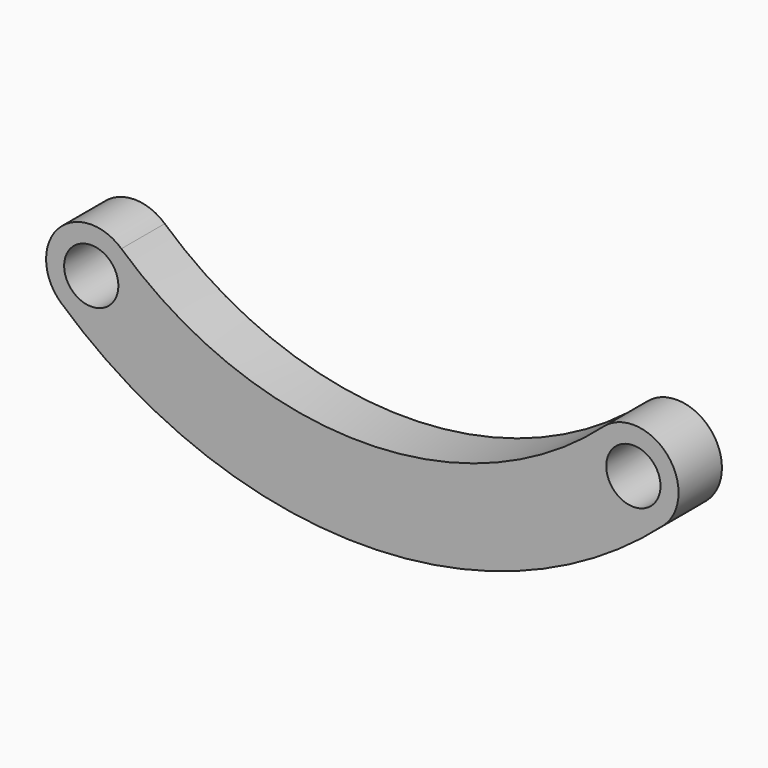
from build123d import *

# Parameters (mm, degrees)
F0_R     = 9.525
F1_DEPTH = 19.05


with BuildPart() as f1:
    # F0 (on Front) → F1 (new body)
    with BuildSketch(Plane.XZ):
        with BuildLine():
            ThreePointArc((179.916667, 11.832526), (95.25, -20.507263), (10.583333, 11.832526))
            ThreePointArc((10.583333, 11.832526), (-11.832526, 10.583333), (-10.583333, -11.832526))
            ThreePointArc((-10.583333, -11.832526), (95.25, -52.257263), (201.083333, -11.832526))
            ThreePointArc((201.083333, -11.832526), (202.332526, 10.583333), (179.916667, 11.832526))
        make_face()
        Circle(F0_R, mode=Mode.SUBTRACT)
        with Locations((190.5, 0)):
            Circle(F0_R, mode=Mode.SUBTRACT)
        with BuildLine():
            ThreePointArc((179.916667, 11.832526), (95.25, -20.507263), (10.583333, 11.832526))
            ThreePointArc((10.583333, 11.832526), (-11.832526, 10.583333), (-10.583333, -11.832526))
            ThreePointArc((-10.583333, -11.832526), (95.25, -52.257263), (201.083333, -11.832526))
            ThreePointArc((201.083333, -11.832526), (202.332526, 10.583333), (179.916667, 11.832526))
        make_face()
        Circle(F0_R, mode=Mode.SUBTRACT)
        with Locations((190.5, 0)):
            Circle(F0_R, mode=Mode.SUBTRACT)
        with BuildLine():
            ThreePointArc((179.916667, 11.832526), (95.25, -20.507263), (10.583333, 11.832526))
            ThreePointArc((10.583333, 11.832526), (-11.832526, 10.583333), (-10.583333, -11.832526))
            ThreePointArc((-10.583333, -11.832526), (95.25, -52.257263), (201.083333, -11.832526))
            ThreePointArc((201.083333, -11.832526), (202.332526, 10.583333), (179.916667, 11.832526))
        make_face()
        Circle(F0_R, mode=Mode.SUBTRACT)
        with Locations((190.5, 0)):
            Circle(F0_R, mode=Mode.SUBTRACT)
    extrude(amount=F1_DEPTH)


solid = f1.part
